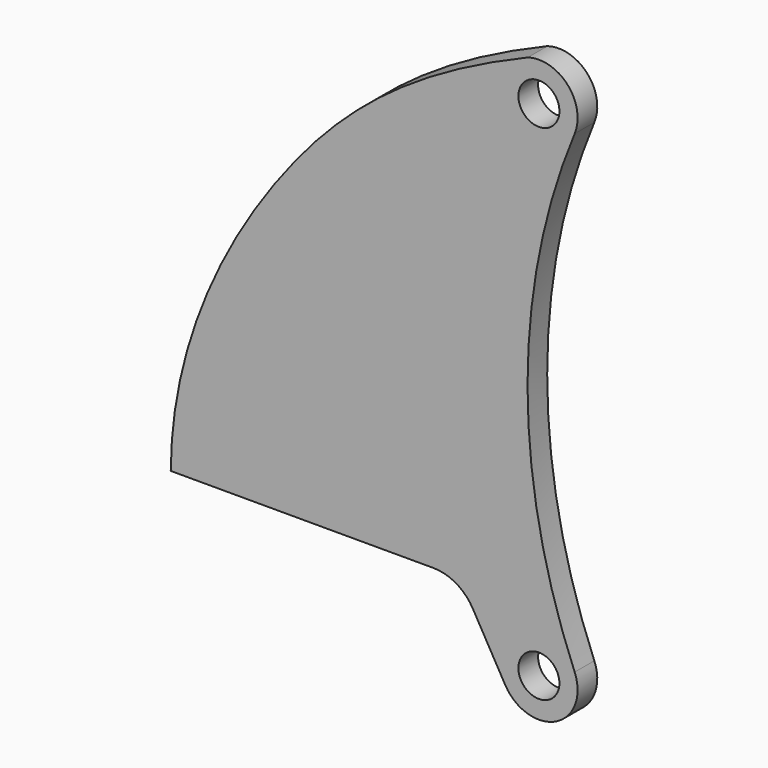
from build123d import *

# Parameters (mm, degrees)
F0_R     = 4.5
F1_DEPTH = 5.4


with BuildPart() as f1:
    # F0 (on Front) → F1 (new body)
    with BuildSketch(Plane.XZ):
        with BuildLine():
            ThreePointArc((-78.3974559658, -56.9855438516), (-67.2751755198, -60.3942107186), (-63.167114189, -49.5108305345))
            ThreePointArc((-63.167114189, -49.5108305345), (-73.5194977675, 2.5341162671), (-63.167114189, 54.5790630688))
            ThreePointArc((-63.167114189, 54.5790630688), (-64.7095667842, 63.5263690632), (-73.4519942367, 65.976554118))
            add(Edge.make_bspline(
                [(-151.8717300636, -39.4658837329), (-151.7282611262, -14.4952609585), (-129.5077227217, 31.0105469023), (-98.7539507033, 55.4093173276), (-73.4519942367, 65.976554118)],
                knots=[0, 0, 0, 0, 0.5062357866, 1, 1, 1, 1], degree=3))
            Line((-151.8717300636, -39.4658837329), (-94.2225198369, -39.4658837329))
            ThreePointArc((-94.2225198369, -39.4658837329), (-89.2060200858, -40.8151768111), (-85.5432660129, -44.4989376835))
            Line((-85.5432660129, -44.4989376835), (-78.3974559658, -56.9855438516))
        make_face()
        with Locations((-71.0200902154, -52.7636397096)):
            Circle(F0_R, mode=Mode.SUBTRACT)
        with Locations((-71.0200902154, 57.8318722439)):
            Circle(F0_R, mode=Mode.SUBTRACT)
    extrude(amount=F1_DEPTH)


solid = f1.part
